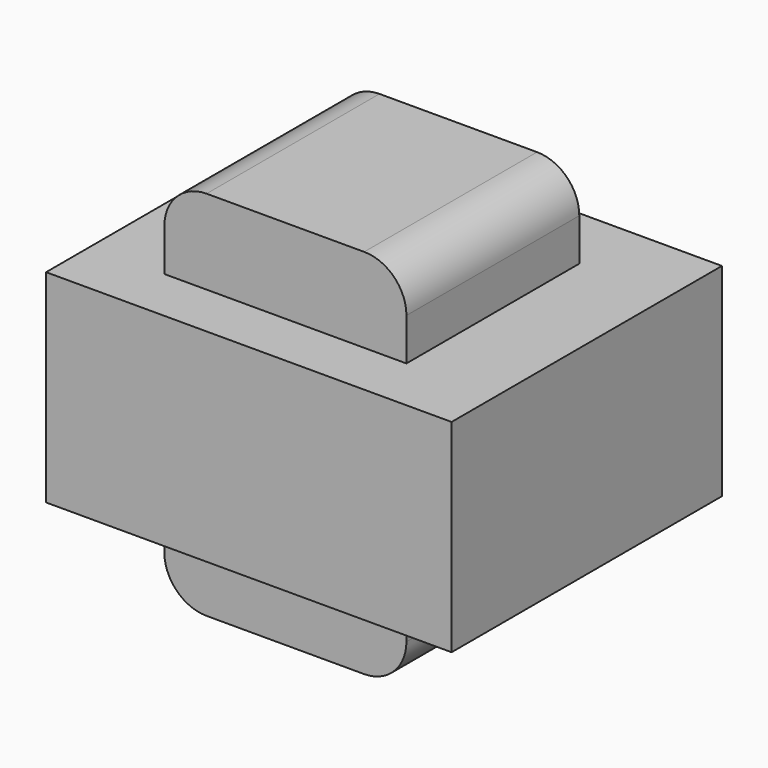
from build123d import *

# Parameters (mm, degrees)
F0_W          = 48
F0_H          = 40
F1_DEPTH      = 24
F2_W          = 28.65385
F2_H          = 25.576925
F3_DEPTH      = 10
F3_DEPTH_BACK = 34
F4_R          = 5


with BuildPart() as f1:
    # F0 (on Top) → F1 (new body)
    with BuildSketch(Plane.XY):
        with Locations((13.115388, -8.846156)):
            Rectangle(F0_W, F0_H)
    extrude(amount=F1_DEPTH)

    # F2 (on face) → F3 (join, two sides)
    with BuildSketch(Plane.XY.offset(24)) as f3_sk:
        with Locations((12.21154, -9.519231)):
            Rectangle(F2_W, F2_H)
    extrude(amount=F3_DEPTH)
    extrude(f3_sk.sketch, amount=-F3_DEPTH_BACK)

    # F4
    f4_edges = [f1.edges().sort_by_distance(p)[0] for p in [
        (26.538465, -9.519232, 34),
        (26.538465, -9.519232, -10),
        (-2.115385, -9.519232, -10),
        (-2.115385, -9.519232, 34),
    ]]
    fillet(f4_edges, radius=F4_R)


solid = f1.part
